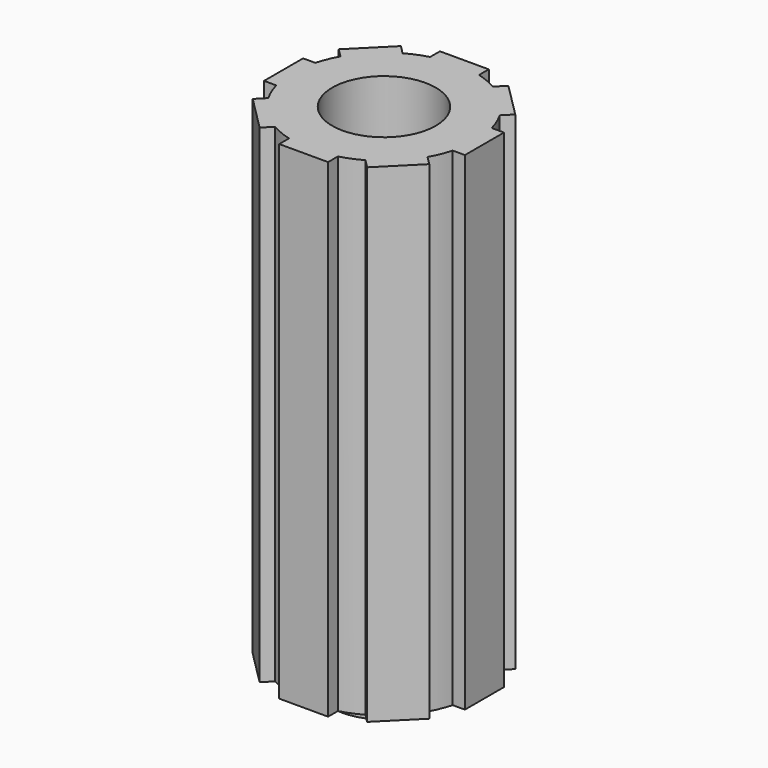
from build123d import *

# Parameters (mm, degrees)
F0_R     = 10.7696
F1_DEPTH = 2.54
F2_DEPTH = 101.6
F3_DEPTH = 5.08


with BuildPart() as f1:
    # F0 (on Top) → F1 (new body)
    with BuildSketch(Plane.XY):
        Circle(F0_R)
    extrude(amount=F1_DEPTH)

    # F0 (on Top) → F2 (join)
    with BuildSketch(Plane.XY):
        with BuildLine():
            Line((5.08, 20.900177), (-5.08, 20.900177))
            Line((-5.08, 20.900177), (-5.08, 18.360177))
            ThreePointArc((-5.08, 18.360177), (-7.290119, 17.599905), (-9.390503, 16.574708))
            Line((-9.390503, 16.574708), (-11.186554, 18.370759))
            Line((-11.186554, 18.370759), (-18.370759, 11.186554))
            Line((-18.370759, 11.186554), (-16.574708, 9.390503))
            ThreePointArc((-16.574708, 9.390503), (-17.599905, 7.290119), (-18.360177, 5.08))
            Line((-18.360177, 5.08), (-20.900177, 5.08))
            Line((-20.900177, 5.08), (-20.900177, -5.08))
            Line((-20.900177, -5.08), (-18.360177, -5.08))
            ThreePointArc((-18.360177, -5.08), (-17.599905, -7.290119), (-16.574708, -9.390503))
            Line((-16.574708, -9.390503), (-18.370759, -11.186554))
            Line((-18.370759, -11.186554), (-11.186554, -18.370759))
            Line((-11.186554, -18.370759), (-9.390503, -16.574708))
            ThreePointArc((-9.390503, -16.574708), (-7.290119, -17.599905), (-5.08, -18.360177))
            Line((-5.08, -18.360177), (-5.08, -20.900177))
            Line((-5.08, -20.900177), (5.08, -20.900177))
            Line((5.08, -20.900177), (5.08, -18.360177))
            ThreePointArc((5.08, -18.360177), (7.290119, -17.599905), (9.390503, -16.574708))
            Line((9.390503, -16.574708), (11.186554, -18.370759))
            Line((11.186554, -18.370759), (18.370759, -11.186554))
            Line((18.370759, -11.186554), (16.574708, -9.390503))
            ThreePointArc((16.574708, -9.390503), (17.599905, -7.290119), (18.360177, -5.08))
            Line((18.360177, -5.08), (20.900177, -5.08))
            Line((20.900177, -5.08), (20.900177, 5.08))
            Line((20.900177, 5.08), (18.360177, 5.08))
            ThreePointArc((18.360177, 5.08), (17.599905, 7.290119), (16.574708, 9.390503))
            Line((16.574708, 9.390503), (18.370759, 11.186554))
            Line((18.370759, 11.186554), (11.186554, 18.370759))
            Line((11.186554, 18.370759), (9.390503, 16.574708))
            ThreePointArc((9.390503, 16.574708), (7.290119, 17.599905), (5.08, 18.360177))
            Line((5.08, 18.360177), (5.08, 20.900177))
        make_face()
        Circle(F0_R, mode=Mode.SUBTRACT)
    extrude(amount=F2_DEPTH)

    # F0 (on Top) → F3 (join)
    with BuildSketch(Plane.XY):
        Circle(F0_R)
    extrude(amount=-F3_DEPTH)


solid = f1.part
